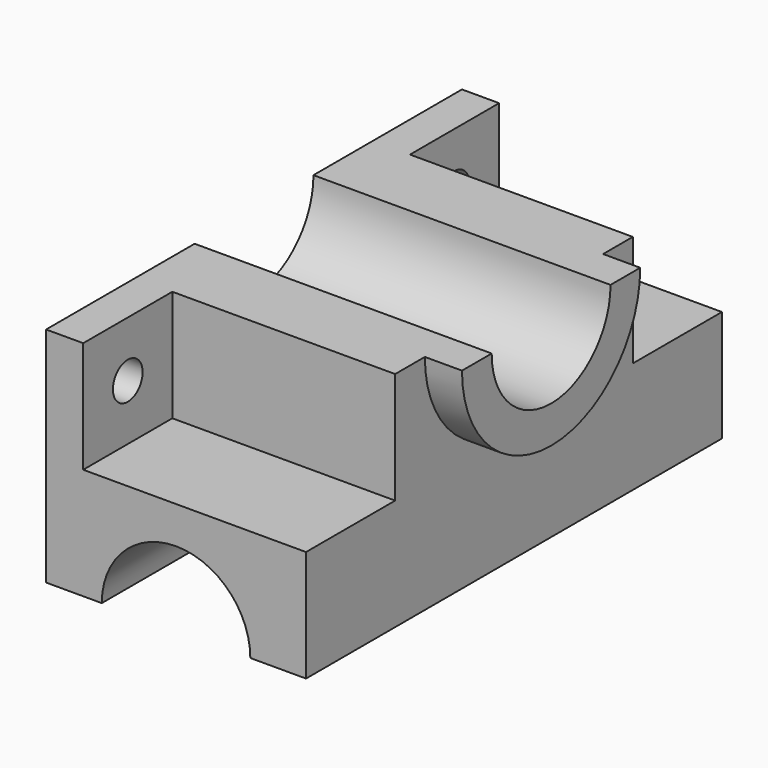
from build123d import *

# Parameters (mm, degrees)
F1_DEPTH  = 140
F2_W      = 60
F2_H      = 30
F3_DEPTH  = 30
F4_R      = 5
F5_DEPTH  = 10
F6_W      = 60
F6_H      = 30
F7_DEPTH  = 30
F8_R      = 5
F9_DEPTH  = 10
F11_DEPTH = 10
F12_DEPTH = 70


with BuildPart() as f1:
    # F0 (on Front) → F1 (new body)
    with BuildSketch(Plane.XZ):
        with BuildLine():
            Line((81.4989478886, 0), (96.4989478886, 0))
            Line((96.4989478886, 0), (96.4989478886, 60))
            Line((96.4989478886, 60), (26.4989478886, 60))
            Line((26.4989478886, 60), (26.4989478886, 0))
            Line((26.4989478886, 0), (41.4989478886, 0))
            ThreePointArc((41.4989478886, 0), (61.4989478886, 20), (81.4989478886, 0))
        make_face()
    extrude(amount=F1_DEPTH)

    # F2 (on face) → F3 (cut)
    with BuildSketch(Plane.XY.offset(60)):
        with Locations((66.4989478886, -15)):
            Rectangle(F2_W, F2_H)
    extrude(amount=-F3_DEPTH, mode=Mode.SUBTRACT)

    # F4 (on face) → F5 (cut)
    with BuildSketch(Plane.YZ.offset(36.4989478886)):
        with Locations((-15, 45)):
            Circle(F4_R)
    extrude(amount=-F5_DEPTH, mode=Mode.SUBTRACT)

    # F6 (on face) → F7 (cut)
    with BuildSketch(Plane.XY.offset(60)):
        with Locations((66.4989478886, -125)):
            Rectangle(F6_W, F6_H)
    extrude(amount=-F7_DEPTH, mode=Mode.SUBTRACT)

    # F8 (on face) → F9 (cut)
    with BuildSketch(Plane.YZ.offset(36.4989478886)):
        with Locations((-125, 45)):
            Circle(F8_R)
    extrude(amount=-F9_DEPTH, mode=Mode.SUBTRACT)

    # F10 (on face) → F11 (join)
    with BuildSketch(Plane.YZ.offset(96.4989478886)):
        with BuildLine():
            ThreePointArc((-50, 60), (-70, 40), (-90, 60))
            Line((-90, 60), (-100, 60))
            ThreePointArc((-100, 60), (-70, 30), (-40, 60))
            Line((-40, 60), (-50, 60))
        make_face()
    extrude(amount=F11_DEPTH)

    # F12 (cut): a face of the model
    f12_faces = [f1.faces().sort_by_distance(p)[0] for p in [
        (96.4989478886, -70, 51.5117363684),
    ]]
    extrude(f12_faces, amount=-F12_DEPTH, mode=Mode.SUBTRACT)


solid = f1.part
